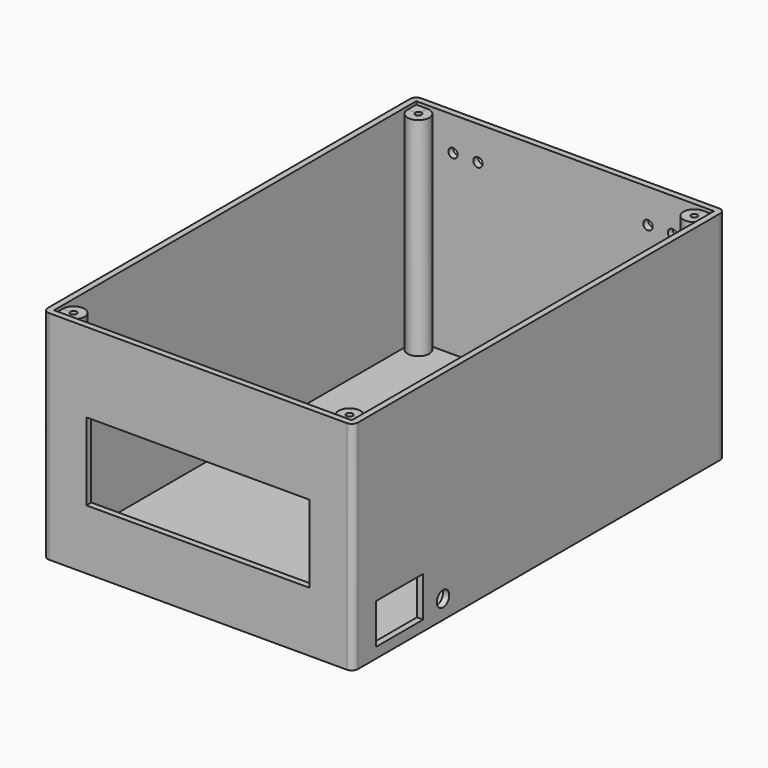
from build123d import *

# Parameters (mm, degrees)
F0_W               = 100
F0_H               = 150
F1_DEPTH           = 70
F2_T               = -2
F3_W               = 72
F3_H               = 25
F4_DEPTH           = 3
F6_D               = 3
F6_DEPTH           = 4
F6_TIP             = 0.9012909285
F8_D               = 5
F8_DEPTH           = 4
F8_TIP             = 1.5021515476
F9_R               = 2
F10_R              = 3.5
F11_R              = 3.5
F13_R              = 3.5
F12_R              = 3.5
F14_DEPTH          = 67
F15_W              = 3.5
F15_H              = 3.5
F16_DEPTH          = 67
F21_D              = 2
F21_DEPTH          = 10
F21_TIP            = 0.600860619
F21_2_D            = 2
F21_2_DEPTH        = 10
F21_2_TIP          = 0.600860619
F21_ON_F18_D       = 2
F21_ON_F18_DEPTH   = 10
F21_ON_F18_TIP     = 0.600860619
F21_ON_F18_2_D     = 2
F21_ON_F18_2_DEPTH = 10
F21_ON_F18_2_TIP   = 0.600860619
F21_ON_F19_D       = 2
F21_ON_F19_DEPTH   = 10
F21_ON_F19_TIP     = 0.600860619
F21_ON_F19_2_D     = 2
F21_ON_F19_2_DEPTH = 10
F21_ON_F19_2_TIP   = 0.600860619
F21_ON_F20_D       = 2
F21_ON_F20_DEPTH   = 10
F21_ON_F20_TIP     = 0.600860619
F21_ON_F20_2_D     = 2
F21_ON_F20_2_DEPTH = 10
F21_ON_F20_2_TIP   = 0.600860619
F22_W              = 19
F22_H              = 13
F23_DEPTH          = 25.4


with BuildPart() as f1:
    # F0 (on Top) → F1 (new body)
    with BuildSketch(Plane.XY):
        Rectangle(F0_W, F0_H)
    extrude(amount=F1_DEPTH)

    # F2
    f2_openings = [f1.faces().sort_by_distance(p)[0] for p in [
        (0, 0, 70),
    ]]
    offset(amount=F2_T, openings=f2_openings)

    # F3 (on face) → F4 (cut)
    with BuildSketch(Plane.XZ.offset(75)):
        with Locations((0, 31.8381508402)):
            Rectangle(F3_W, F3_H)
    extrude(amount=-F4_DEPTH, mode=Mode.SUBTRACT)

    # F6
    with Locations(Plane(origin=(0, 75, 0), x_dir=(-1, 0, 0), z_dir=(0, 1, 0))):
        with Locations((-34.6261933446, 59.1051355004), (-26.7121009529, 59.1051355004), (28.1158592552, 59.1051355004), (36.150354892, 59.1051355004)):
            Hole(F6_D / 2, depth=F6_DEPTH)
            with Locations((0, 0, -(F6_DEPTH + F6_TIP / 2))):  # 118° drill point
                Cone(0, F6_D / 2, F6_TIP, mode=Mode.SUBTRACT)

    # F8
    with Locations(Plane.YZ.offset(50)):
        with Locations((-38.7034714222, 6.0567087494)):
            Hole(F8_D / 2, depth=F8_DEPTH)
            with Locations((0, 0, -(F8_DEPTH + F8_TIP / 2))):  # 118° drill point
                Cone(0, F8_D / 2, F8_TIP, mode=Mode.SUBTRACT)

    # F9
    f9_edges = [f1.edges().sort_by_distance(p)[0] for p in [
        (-50, -75, 35),
        (-50, 75, 35),
        (50, 75, 35),
        (50, -75, 35),
    ]]
    fillet(f9_edges, radius=F9_R)

    # F10 (on face) + F11 (on face) + F13 (on face) + F12 (on face) → F14 (join)
    with BuildSketch(Plane.XY.offset(2)):
        with Locations((-44.4922447205, 69.4905892015)):
            Circle(F10_R)
    with BuildSketch(Plane.XY.offset(2)):
        with Locations((44.4863475859, 69.4657564163)):
            Circle(F11_R)
    with BuildSketch(Plane.XY.offset(2)):
        with Locations((-44.4913990796, -69.5005133748)):
            Circle(F13_R)
    with BuildSketch(Plane.XY.offset(2)):
        with Locations((44.4919168949, -69.5066079497)):
            Circle(F12_R)
    extrude(amount=F14_DEPTH)

    # F21
    with Locations(Plane.XY.offset(69)):
        with Locations((-44.4913990796, -69.5005133748)):
            Hole(F21_D / 2, depth=F21_DEPTH)
            with Locations((0, 0, -(F21_DEPTH + F21_TIP / 2))):  # 118° drill point
                Cone(0, F21_D / 2, F21_TIP, mode=Mode.SUBTRACT)

    # F21 on F18
    with Locations(Plane.XY.offset(69)):
        with Locations((-44.4922447205, 69.4905892015)):
            Hole(F21_ON_F18_D / 2, depth=F21_ON_F18_DEPTH)
            with Locations((0, 0, -(F21_ON_F18_DEPTH + F21_ON_F18_TIP / 2))):  # 118° drill point
                Cone(0, F21_ON_F18_D / 2, F21_ON_F18_TIP, mode=Mode.SUBTRACT)

    # F21 on F19
    with Locations(Plane.XY.offset(69)):
        with Locations((44.4863475859, 69.4657564163)):
            Hole(F21_ON_F19_D / 2, depth=F21_ON_F19_DEPTH)
            with Locations((0, 0, -(F21_ON_F19_DEPTH + F21_ON_F19_TIP / 2))):  # 118° drill point
                Cone(0, F21_ON_F19_D / 2, F21_ON_F19_TIP, mode=Mode.SUBTRACT)

    # F21 on F20
    with Locations(Plane.XY.offset(69)):
        with Locations((44.4919168949, -69.5066079497)):
            Hole(F21_ON_F20_D / 2, depth=F21_ON_F20_DEPTH)
            with Locations((0, 0, -(F21_ON_F20_DEPTH + F21_ON_F20_TIP / 2))):  # 118° drill point
                Cone(0, F21_ON_F20_D / 2, F21_ON_F20_TIP, mode=Mode.SUBTRACT)

    # F22 (on face) → F23 (cut)
    with BuildSketch(Plane.YZ.offset(50)):
        with Locations((-56.2032939196, 9.8667674288)):
            Rectangle(F22_W, F22_H)
    extrude(amount=-F23_DEPTH, mode=Mode.SUBTRACT)


with BuildPart() as f16:
    # F15 (on face) → F16 (new body)
    with BuildSketch(Plane.XY.offset(2)):
        with Locations((-46.2422447205, 71.2405892015)):
            Rectangle(F15_W, F15_H)
    extrude(amount=F16_DEPTH)

    # F21 on F18#2
    with Locations(Plane.XY.offset(69)):
        with Locations((-44.4922447205, 69.4905892015)):
            Hole(F21_ON_F18_2_D / 2, depth=F21_ON_F18_2_DEPTH)
            with Locations((0, 0, -(F21_ON_F18_2_DEPTH + F21_ON_F18_2_TIP / 2))):  # 118° drill point
                Cone(0, F21_ON_F18_2_D / 2, F21_ON_F18_2_TIP, mode=Mode.SUBTRACT)


with BuildPart() as f16b:
    # F15 (on face) → F16, piece 2 (new body)
    with BuildSketch(Plane.XY.offset(2)):
        with Locations((46.2363475859, 71.2157564163)):
            Rectangle(F15_W, F15_H)
    extrude(amount=F16_DEPTH)

    # F21 on F19#2
    with Locations(Plane.XY.offset(69)):
        with Locations((44.4863475859, 69.4657564163)):
            Hole(F21_ON_F19_2_D / 2, depth=F21_ON_F19_2_DEPTH)
            with Locations((0, 0, -(F21_ON_F19_2_DEPTH + F21_ON_F19_2_TIP / 2))):  # 118° drill point
                Cone(0, F21_ON_F19_2_D / 2, F21_ON_F19_2_TIP, mode=Mode.SUBTRACT)


with BuildPart() as f16c:
    # F15 (on face) → F16, piece 3 (new body)
    with BuildSketch(Plane.XY.offset(2)):
        with Locations((46.2419168949, -71.2566079497)):
            Rectangle(F15_W, F15_H)
    extrude(amount=F16_DEPTH)

    # F21 on F20#2
    with Locations(Plane.XY.offset(69)):
        with Locations((44.4919168949, -69.5066079497)):
            Hole(F21_ON_F20_2_D / 2, depth=F21_ON_F20_2_DEPTH)
            with Locations((0, 0, -(F21_ON_F20_2_DEPTH + F21_ON_F20_2_TIP / 2))):  # 118° drill point
                Cone(0, F21_ON_F20_2_D / 2, F21_ON_F20_2_TIP, mode=Mode.SUBTRACT)


with BuildPart() as f16d:
    # F15 (on face) → F16, piece 4 (new body)
    with BuildSketch(Plane.XY.offset(2)):
        with Locations((-46.2413990796, -71.2505133748)):
            Rectangle(F15_W, F15_H)
    extrude(amount=F16_DEPTH)

    # F21#2
    with Locations(Plane.XY.offset(69)):
        with Locations((-44.4913990796, -69.5005133748)):
            Hole(F21_2_D / 2, depth=F21_2_DEPTH)
            with Locations((0, 0, -(F21_2_DEPTH + F21_2_TIP / 2))):  # 118° drill point
                Cone(0, F21_2_D / 2, F21_2_TIP, mode=Mode.SUBTRACT)


solid = Compound([f1.part, f16.part, f16b.part, f16c.part, f16d.part])
